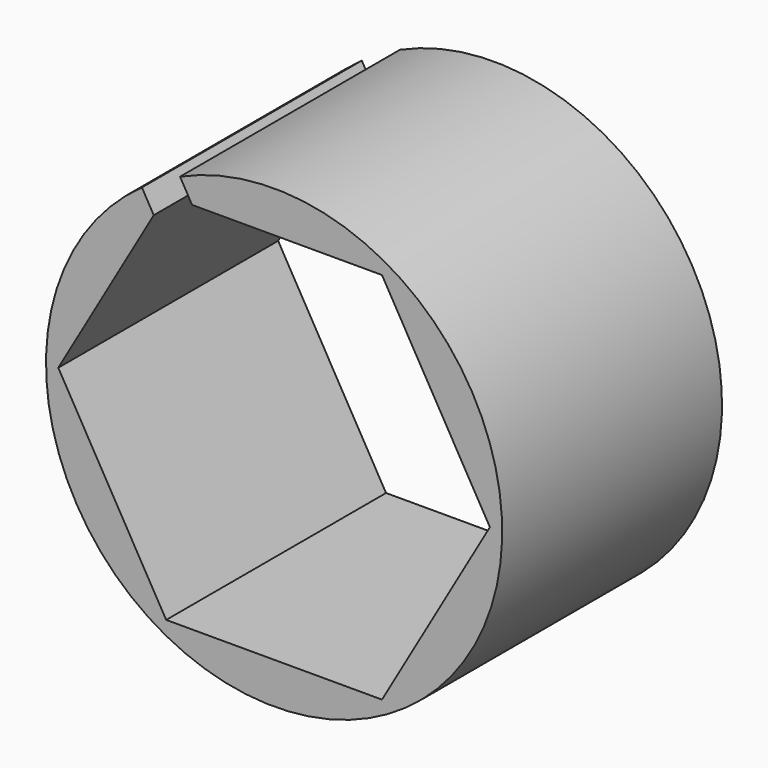
from build123d import *

# Parameters (mm, degrees)
F1_DEPTH = 12.5


with BuildPart() as f1:
    # F0 (on Front) → F1 (new body)
    with BuildSketch(Plane.XZ):
        with BuildLine():
            Line((4.907477, 8.5), (9.814955, 0))
            Line((9.814955, 0), (4.907477, -8.5))
            Line((4.907477, -8.5), (-4.907477, -8.5))
            Line((-4.907477, -8.5), (-9.814955, 0))
            Line((-9.814955, 0), (-5.47339, 7.51981))
            Line((-5.47339, 7.51981), (-6.011273, 8.456076))
            ThreePointArc((-6.011273, 8.456076), (5.168242, -8.996105), (-4.277084, 9.452363))
            Line((-4.277084, 9.452363), (-3.729954, 8.5))
            Line((-3.729954, 8.5), (4.907477, 8.5))
        make_face()
    extrude(amount=F1_DEPTH)


solid = f1.part
